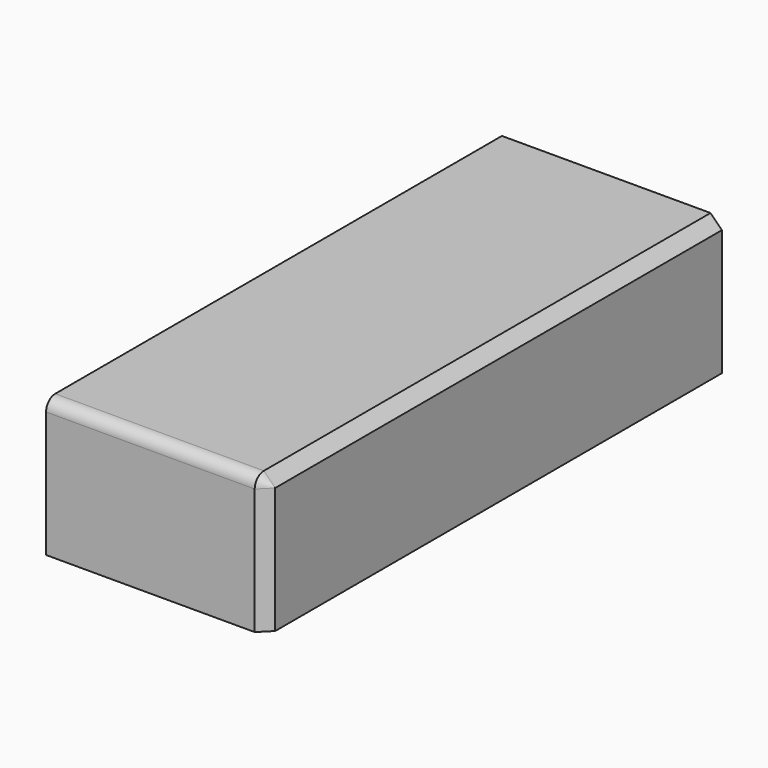
from build123d import *

# Parameters (mm, degrees)
F0_W     = 98.08211
F0_H     = 61.228119
F1_DEPTH = 127
F2_R     = 5.08
F3_SIZE  = 5.08


with BuildPart() as f1:
    # F0 (on Front) → F1 (new body, symmetric)
    with BuildSketch(Plane.XZ):
        with Locations((-49.041055, 30.614059)):
            Rectangle(F0_W, F0_H)
    extrude(amount=F1_DEPTH, both=True)

    # F2
    f2_edges = [f1.edges().sort_by_distance(p)[0] for p in [
        (-49.041055, -127, 61.228119),
    ]]
    fillet(f2_edges, radius=F2_R)

    # F3
    f3_edges = [f1.edges().sort_by_distance(p)[0] for p in [
        (0, 2.54, 61.228119),
    ]]
    chamfer(f3_edges, length=F3_SIZE)


solid = f1.part
